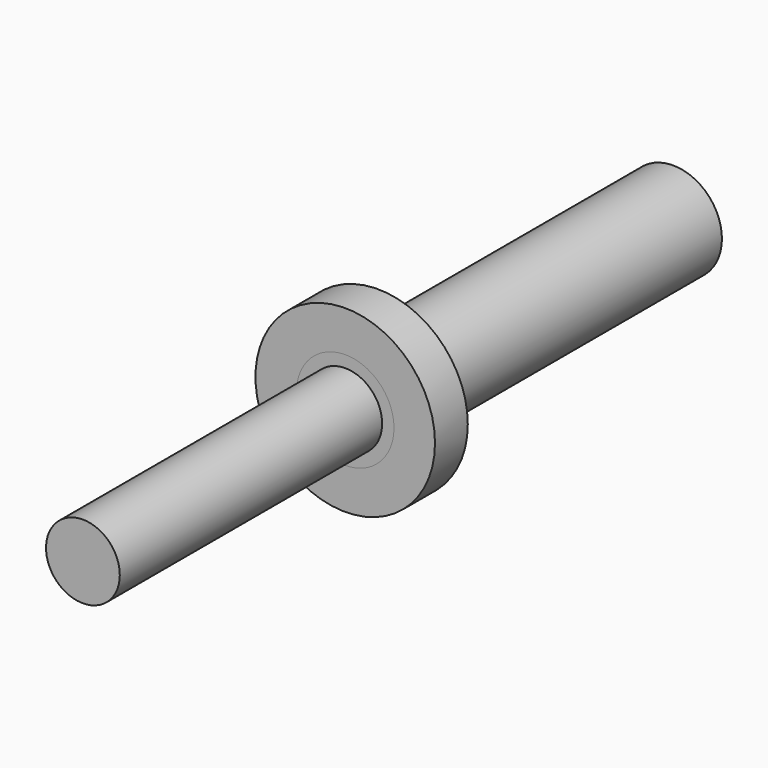
from build123d import *

# Parameters (mm, degrees)
F0_R      = 9
F1_DEPTH  = 90
F0_R_2    = 21.9
F0_R_3    = 11.9
F2_DEPTH  = 10
F3_DEPTH  = 90
F4_DEPTH  = 10
F1_FACE_R = 9
F5_DEPTH  = 90


with BuildPart() as f1:
    # F0 (on Front) → F1 (new body)
    with BuildSketch(Plane.XZ):
        Circle(F0_R)
    extrude(amount=F1_DEPTH)


with BuildPart() as f2:
    # F0 (on Front) → F2 (new body)
    with BuildSketch(Plane.XZ):
        Circle(F0_R_2)
        Circle(F0_R_3, mode=Mode.SUBTRACT)
    extrude(amount=F2_DEPTH)


with BuildPart() as f3:
    # F0 (on Front) → F3 (new body)
    with BuildSketch(Plane.XZ):
        Circle(F0_R_3)
        Circle(F0_R, mode=Mode.SUBTRACT)
    extrude(amount=-F3_DEPTH)


with BuildPart() as f4:
    # F0 (on Front) → F4 (new body)
    with BuildSketch(Plane.XZ):
        Circle(F0_R_3)
        Circle(F0_R, mode=Mode.SUBTRACT)
    extrude(amount=F4_DEPTH)


with BuildPart() as f5:
    # F1_face (on face) → F5 (new body)
    with BuildSketch(Plane(origin=(0, 0, 0), x_dir=(1, 0, 0), z_dir=(0, 1, 0))):
        Circle(F1_FACE_R)
    extrude(amount=F5_DEPTH)


solid = Compound([f1.part, f2.part, f3.part, f4.part, f5.part])
